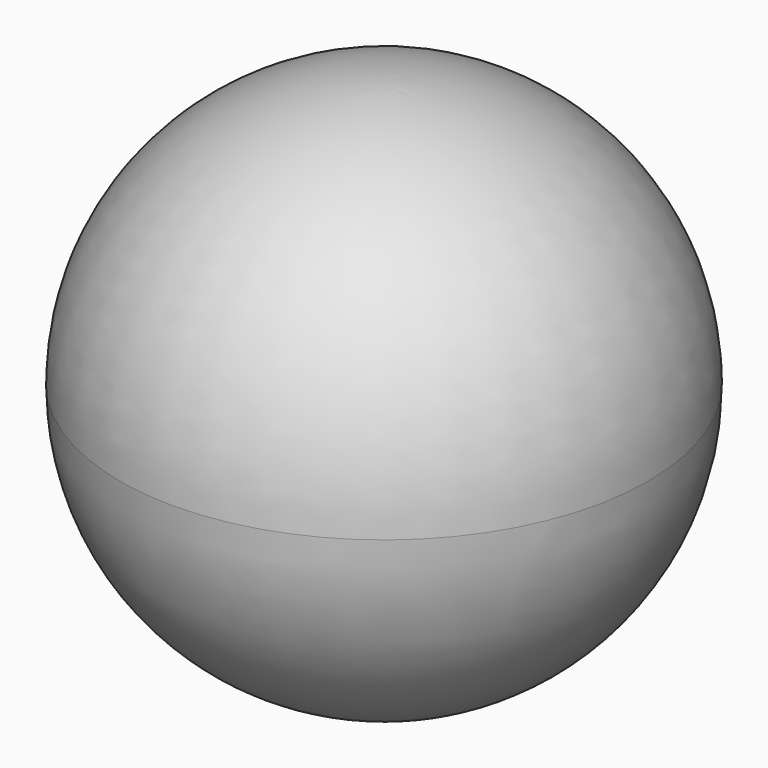
from build123d import *


with BuildPart() as f1:
    # F0 (on Front) → F1 (revolve)
    with BuildSketch(Plane.XZ):
        with BuildLine():
            ThreePointArc((15, 1.515308), (58.09475, 27.565835), (75, 75))
            ThreePointArc((75, 75), (53.033009, 128.033009), (0, 150))
            Line((0, 150), (0, 146))
            ThreePointArc((0, 146), (50.204581, 125.204581), (71, 75))
            ThreePointArc((71, 75), (50.204581, 24.795419), (0, 4))
            Line((0, 4), (0, 1.515308))
            Line((0, 1.515308), (15, 1.515308))
        make_face()
        with BuildLine():
            ThreePointArc((0, 0), (7.538172, 0.379789), (15, 1.515308))
            Line((15, 1.515308), (0, 1.515308))
            Line((0, 1.515308), (0, 0))
        make_face()
        with BuildLine():
            Line((15, 0), (15, 1.515308))
            ThreePointArc((15, 1.515308), (7.538172, 0.379789), (0, 0))
            Line((0, 0), (15, 0))
        make_face()
    revolve(axis=Axis((0, 0, 75), (0, 0, -1)))


solid = f1.part
